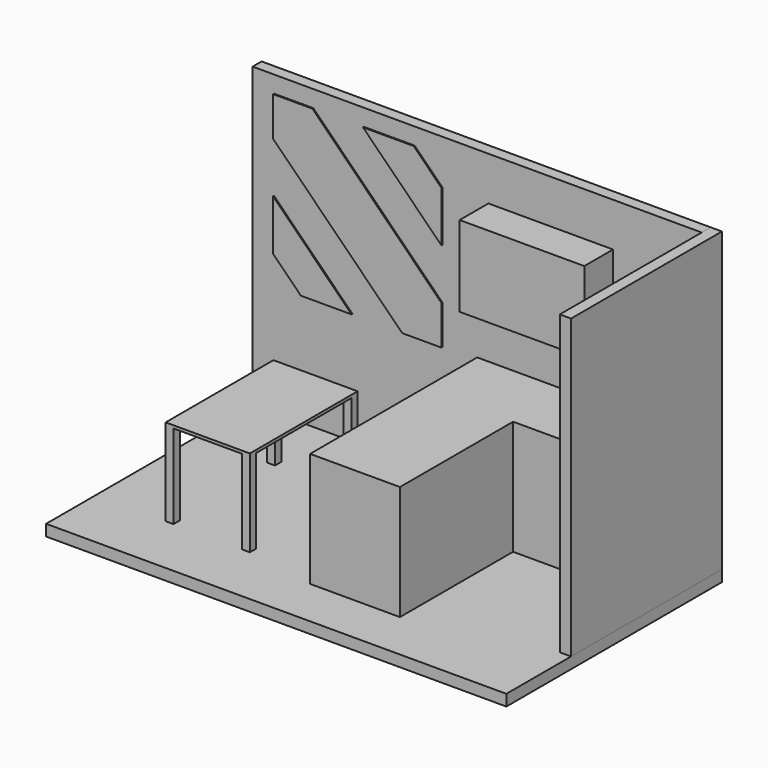
from build123d import *

# Parameters (mm, degrees)
F1_DEPTH  = 1020
F3_W      = 1110
F3_H      = 720
F4_DEPTH  = 100
F5_DEPTH  = 320
F7_W      = 1680
F7_H      = 2650
F8_DEPTH  = 100
F10_W     = 4100
F10_H     = 2400
F11_DEPTH = 100
F12_W     = 750
F12_H     = 1200
F13_DEPTH = 25
F15_W     = 70
F15_H     = 70
F15_H_2   = 69.9
F16_DEPTH = 750
F18_W     = 320
F18_H     = 80
F19_DEPTH = 10
F21_DEPTH = 10


with BuildPart() as f1:
    # F0 (on Top) → F1 (new body)
    with BuildSketch(Plane.XY):
        Polygon((800, 0), (0, 0), (0, -1860), (800, -1860), (800, -600), (2000, -600), (2000, 0), align=None)
    extrude(amount=F1_DEPTH)


with BuildPart() as f4:
    # F3 (on offset) → F4 (new body)
    with BuildSketch(Plane(origin=(0, 0, 0), x_dir=(-1, 0, 0), z_dir=(0, 1, 0))):
        Polygon((-2000, 0), (0, 0), (2000, 0), (2000, 2650), (0, 2650), (-2000, 2650), align=None)
        with Locations((-655, 1900)):
            Rectangle(F3_W, F3_H, mode=Mode.SUBTRACT)
        with Locations((-655, 1900)):
            Rectangle(F3_W, F3_H)
    extrude(amount=F4_DEPTH)


with BuildPart() as f5:
    # F3 (on offset) → F5 (new body)
    with BuildSketch(Plane(origin=(0, 0, 0), x_dir=(-1, 0, 0), z_dir=(0, 1, 0))):
        with Locations((-655, 1900)):
            Rectangle(F3_W, F3_H)
    extrude(amount=-F5_DEPTH)


with BuildPart() as f8:
    # F7 (on offset) → F8 (new body)
    with BuildSketch(Plane.YZ.offset(2000)):
        with Locations((-740, 1325)):
            Rectangle(F7_W, F7_H)
    extrude(amount=F8_DEPTH)


with BuildPart() as f11:
    # F10 (on offset) → F11 (new body)
    with BuildSketch(Plane(origin=(0, 0, 0), x_dir=(1, 0, 0), z_dir=(0, 0, -1))):
        with Locations((50, 1100)):
            Rectangle(F10_W, F10_H)
    extrude(amount=F11_DEPTH)


with BuildPart() as f13:
    # F12 (on face) → F13 (new body)
    with BuildSketch(Plane.XY):
        with Locations((-1000, -1150)):
            Rectangle(F12_W, F12_H)
    extrude(amount=F13_DEPTH)


with BuildPart() as f13_1:
    # F14: moved
    add(f13.part.moved(Location((0, 0, 750))))

    # F15 (on face) → F16 (join)
    with BuildSketch(Plane(origin=(0, 0, 750), x_dir=(1, 0, 0), z_dir=(0, 0, -1))):
        with Locations((-1340, 1715)):
            Rectangle(F15_W, F15_H)
        with Locations((-660, 1715.05)):
            Rectangle(F15_W, F15_H_2)
        with Locations((-660, 585.1)):
            Rectangle(F15_W, F15_H)
        with Locations((-1340, 585)):
            Rectangle(F15_W, F15_H)
    extrude(amount=F16_DEPTH)


with BuildPart() as f19:
    # F18 (on offset) → F19 (new body)
    with BuildSketch(Plane.XZ):
        with Locations((-490, 1060)):
            Rectangle(F18_W, F18_H)
    extrude(amount=F19_DEPTH)


with BuildPart() as f21:
    # F20 (on offset) → F21 (new body)
    with BuildSketch(Plane.XZ):
        Polygon((-1810, 2150), (-660, 1000), (-310, 1000), (-310, 1350), (-1460, 2500), (-1810, 2500), align=None)
    extrude(amount=F21_DEPTH)


with BuildPart() as f21b:
    # F20 (on offset) → F21, piece 2 (new body)
    with BuildSketch(Plane.XZ):
        Polygon((-310, 2252.5126265847), (-557.4873734153, 2500), (-1008.9873734153, 2500), (-310, 1801.0126265847), align=None)
    extrude(amount=F21_DEPTH)


with BuildPart() as f21c:
    # F20 (on offset) → F21, piece 3 (new body)
    with BuildSketch(Plane.XZ):
        Polygon((-1562.5126265847, 1000), (-1111.0126265847, 1000), (-1810, 1698.9873734153), (-1810, 1247.4873734153), align=None)
    extrude(amount=F21_DEPTH)


solid = Compound([f1.part, f4.part, f5.part, f8.part, f11.part, f13_1.part, f19.part, f21.part, f21b.part, f21c.part])
